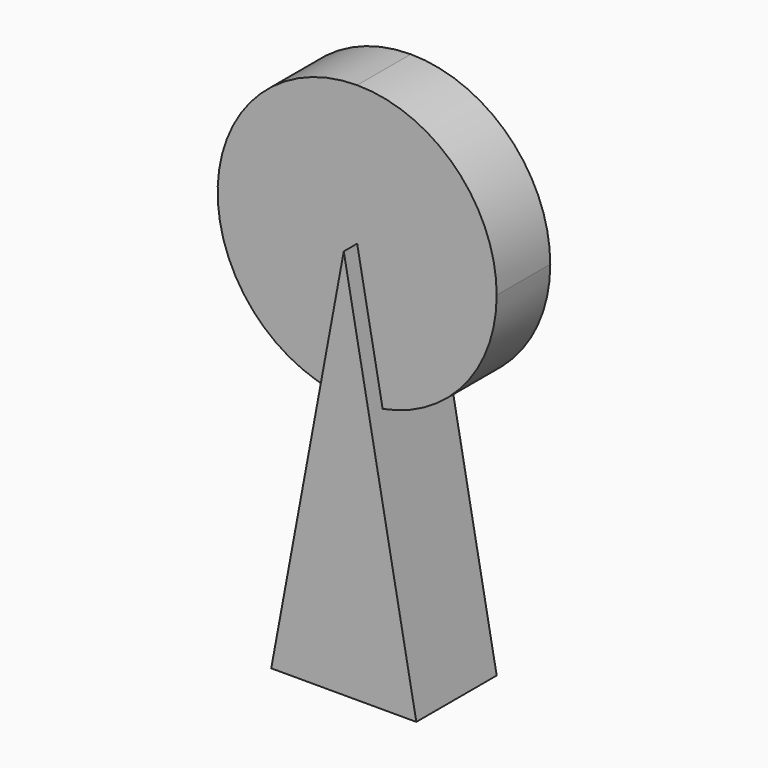
from build123d import *

# Parameters (mm, degrees)
F1_DEPTH = 3
F3_DEPTH = 4.5


with BuildPart() as f1:
    # F0 (on Front) → F1 (new body, symmetric)
    with BuildSketch(Plane.XZ):
        with BuildLine():
            Line((0, 25), (0, 50))
            ThreePointArc((0, 50), (-12.5, 37.5), (0, 25))
        make_face()
        with BuildLine():
            ThreePointArc((0, 25), (8.838835, 28.661165), (12.5, 37.5))
            ThreePointArc((12.5, 37.5), (8.838835, 46.338835), (0, 50))
            Line((0, 50), (0, 25))
        make_face()
    extrude(amount=F1_DEPTH, both=True)

    # F2 (on Front) → F3 (join, symmetric)
    with BuildSketch(Plane.XZ):
        Polygon((6.5, 2.5), (0, 37.5), (-6.5, 2.5), align=None)
    extrude(amount=F3_DEPTH, both=True)

    # F4: F1 across plane


with BuildPart() as f1_1:
    add(f1.part)
    add(f1.part.mirror(Plane.XZ))


solid = f1_1.part
